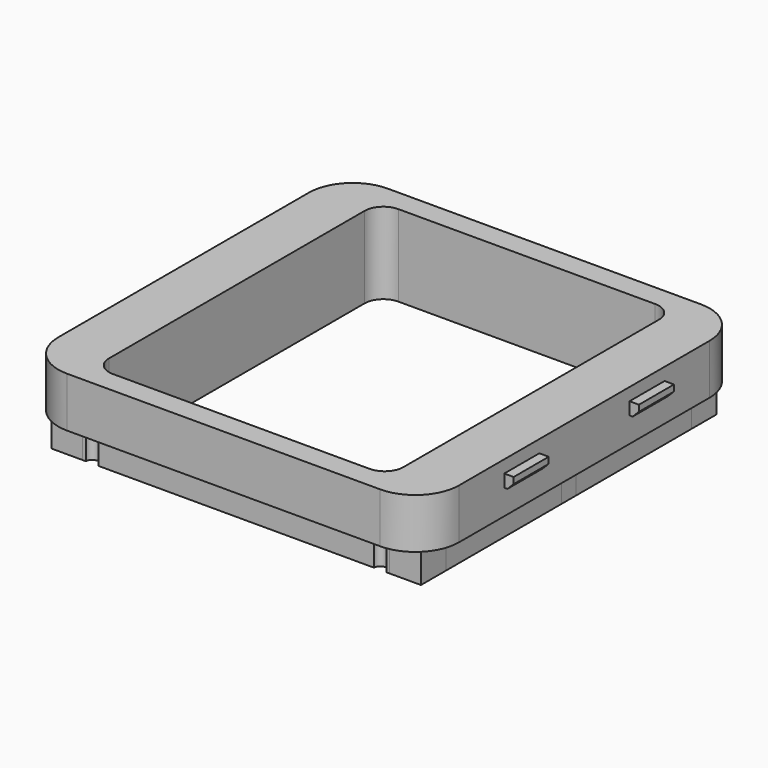
from build123d import *

# Parameters (mm, degrees)
BOX003_W          = 2
BOX003_H          = 7
BOX003_DEPTH      = 2
CHAMFER_SIZE      = 1
BOX004_W          = 2
BOX004_H          = 7
BOX004_DEPTH      = 2
CHAMFER001_SIZE   = 1
BOX005_W          = 2
BOX005_H          = 7
BOX005_DEPTH      = 2
CHAMFER002_SIZE   = 1
BOX006_W          = 2
BOX006_H          = 7
BOX006_DEPTH      = 2
CHAMFER003_SIZE   = 1
CYLINDER003_R     = 1
CYLINDER003_DEPTH = 27
CYLINDER002_R     = 1
CYLINDER002_DEPTH = 27
CYLINDER_R        = 1
CYLINDER_DEPTH    = 27
CYLINDER001_R     = 1
CYLINDER001_DEPTH = 27
BOX002_W          = 47
BOX002_H          = 57
BOX002_DEPTH      = 40
BOX001_W          = 59
BOX001_H          = 59
BOX001_DEPTH      = 5
BOX_W             = 64
BOX_H             = 64
BOX_DEPTH         = 8
FILLET_R          = 7
FILLET001_R       = 3
CYLINDER004_R     = 2.1
CYLINDER004_DEPTH = 20
FILLET002_R       = 5


with BuildPart() as chamfer_body:
    # Box003 → Box003 (new body)
    with BuildSketch(Plane(origin=(-33.5, 9, 4), x_dir=(1, 0, 0), z_dir=(0, 0, 1))):
        with Locations((1, 3.5)):
            Rectangle(BOX003_W, BOX003_H)
    extrude(amount=BOX003_DEPTH)

    # Chamfer
    chamfer_edges = [chamfer_body.edges().sort_by_distance(p)[0] for p in [
        (-33.5, 12.5, 4),
    ]]
    chamfer(chamfer_edges, length=CHAMFER_SIZE)


with BuildPart() as chamfer001:
    # Box004 → Box004 (new body)
    with BuildSketch(Plane(origin=(-33.5, -16, 4), x_dir=(1, 0, 0), z_dir=(0, 0, 1))):
        with Locations((1, 3.5)):
            Rectangle(BOX004_W, BOX004_H)
    extrude(amount=BOX004_DEPTH)

    # Chamfer001
    chamfer001_edges = [chamfer001.edges().sort_by_distance(p)[0] for p in [
        (-33.5, -12.5, 4),
    ]]
    chamfer(chamfer001_edges, length=CHAMFER001_SIZE)


with BuildPart() as chamfer002:
    # Box005 → Box005 (new body)
    with BuildSketch(Plane(origin=(31.5, -16, 4), x_dir=(1, 0, 0), z_dir=(0, 0, 1))):
        with Locations((1, 3.5)):
            Rectangle(BOX005_W, BOX005_H)
    extrude(amount=BOX005_DEPTH)

    # Chamfer002
    chamfer002_edges = [chamfer002.edges().sort_by_distance(p)[0] for p in [
        (33.5, -12.5, 4),
    ]]
    chamfer(chamfer002_edges, length=CHAMFER002_SIZE)


with BuildPart() as chamfer003:
    # Box006 → Box006 (new body)
    with BuildSketch(Plane(origin=(31.5, 9, 4), x_dir=(1, 0, 0), z_dir=(0, 0, 1))):
        with Locations((1, 3.5)):
            Rectangle(BOX006_W, BOX006_H)
    extrude(amount=BOX006_DEPTH)

    # Chamfer003
    chamfer003_edges = [chamfer003.edges().sort_by_distance(p)[0] for p in [
        (33.5, 12.5, 4),
    ]]
    chamfer(chamfer003_edges, length=CHAMFER003_SIZE)


with BuildPart() as cylinder003:
    # Cylinder003 → Cylinder003 (new body)
    with BuildSketch(Plane(origin=(23, -29.5, -23), x_dir=(1, 0, 0), z_dir=(0, 0, 1))):
        Circle(CYLINDER003_R)
    extrude(amount=CYLINDER003_DEPTH)


with BuildPart() as cylinder002:
    # Cylinder002 → Cylinder002 (new body)
    with BuildSketch(Plane(origin=(-23, -29.5, -23), x_dir=(1, 0, 0), z_dir=(0, 0, 1))):
        Circle(CYLINDER002_R)
    extrude(amount=CYLINDER002_DEPTH)


with BuildPart() as cylinder:
    # Cylinder → Cylinder (new body)
    with BuildSketch(Plane(origin=(23, 29.5, -23), x_dir=(1, 0, 0), z_dir=(0, 0, 1))):
        Circle(CYLINDER_R)
    extrude(amount=CYLINDER_DEPTH)


with BuildPart() as cylinder001:
    # Cylinder001 → Cylinder001 (new body)
    with BuildSketch(Plane(origin=(-23, 29.5, -23), x_dir=(1, 0, 0), z_dir=(0, 0, 1))):
        Circle(CYLINDER001_R)
    extrude(amount=CYLINDER001_DEPTH)


with BuildPart() as cube002:
    # Box002 → Box002 (new body)
    with BuildSketch(Plane(origin=(-23.5, -28.5, -20), x_dir=(1, 0, 0), z_dir=(0, 0, 1))):
        with Locations((23.5, 28.5)):
            Rectangle(BOX002_W, BOX002_H)
    extrude(amount=BOX002_DEPTH)


with BuildPart() as cube001:
    # Box001 → Box001 (new body)
    with BuildSketch(Plane(origin=(-29.5, -29.5, -5), x_dir=(1, 0, 0), z_dir=(0, 0, 1))):
        with Locations((29.5, 29.5)):
            Rectangle(BOX001_W, BOX001_H)
    extrude(amount=BOX001_DEPTH)


with BuildPart() as fillet001:
    # Box → Box (new body)
    with BuildSketch(Plane(origin=(-32, -32, 0), x_dir=(1, 0, 0), z_dir=(0, 0, 1))):
        with Locations((32, 32)):
            Rectangle(BOX_W, BOX_H)
    extrude(amount=BOX_DEPTH)

    # Fusion: union Cube001
    add(cube001.part)

    # Cut: cut Cube002
    add(cube002.part, mode=Mode.SUBTRACT)

    # Fillet
    fillet_edges = [fillet001.edges().sort_by_distance(p)[0] for p in [
        (-32, -32, 4),
        (-32, 32, 4),
        (32, -32, 4),
        (32, 32, 4),
    ]]
    fillet(fillet_edges, radius=FILLET_R)

    # Fillet001
    fillet001_edges = [fillet001.edges().sort_by_distance(p)[0] for p in [
        (23.5, -28.5, 1.5),
        (-23.5, -28.5, 1.5),
        (23.5, 28.5, 1.5),
        (-23.5, 28.5, 1.5),
    ]]
    fillet(fillet001_edges, radius=FILLET001_R)


with BuildPart() as cut004:
    # Cut001 base: copy of Fillet001
    add(fillet001.part)

    # Cut001: cut Cylinder001
    add(cylinder001.part, mode=Mode.SUBTRACT)

    # Cut002: cut Cylinder
    add(cylinder.part, mode=Mode.SUBTRACT)

    # Cut003: cut Cylinder002
    add(cylinder002.part, mode=Mode.SUBTRACT)

    # Cut004: cut Cylinder003
    add(cylinder003.part, mode=Mode.SUBTRACT)


with BuildPart() as cylinder004:
    # Cylinder004 → Cylinder004 (new body)
    with BuildSketch(Plane(origin=(28, 0, -15), x_dir=(1, 0, 0), z_dir=(0, 0, 1))):
        Circle(CYLINDER004_R)
    extrude(amount=CYLINDER004_DEPTH)


with BuildPart() as cut009:
    # Fillet002 base: copy of Fillet001
    add(fillet001.part)

    # Fillet002
    fillet002_edges = [cut009.edges().sort_by_distance(p)[0] for p in [
        (-29.5, -29.5, -2.5),
        (-29.5, 29.5, -2.5),
        (29.5, 29.5, -2.5),
        (29.5, -29.5, -2.5),
    ]]
    fillet(fillet002_edges, radius=FILLET002_R)

    # Cut005: cut Cylinder001
    add(cylinder001.part, mode=Mode.SUBTRACT)

    # Cut006: cut Cylinder
    add(cylinder.part, mode=Mode.SUBTRACT)

    # Cut007: cut Cylinder002
    add(cylinder002.part, mode=Mode.SUBTRACT)

    # Cut008: cut Cylinder003
    add(cylinder003.part, mode=Mode.SUBTRACT)

    # Cut009: cut Cylinder004
    add(cylinder004.part, mode=Mode.SUBTRACT)


solid = Compound([chamfer_body.part, chamfer001.part, chamfer002.part, chamfer003.part, cut004.part, cut009.part])
